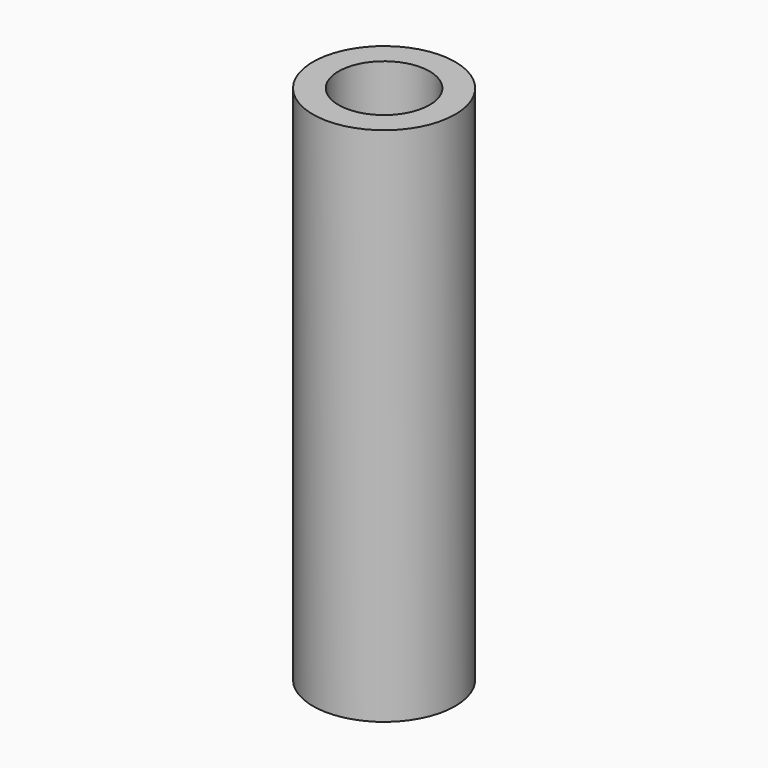
from build123d import *

# Parameters (mm, degrees)
SKETCH_R     = 2.5
PAD_DEPTH    = 18.3
SKETCH001_R  = 1.6
POCKET_DEPTH = 18.301


with BuildPart() as part:
    # Sketch → Pad (new body)
    with BuildSketch(Plane.XY):
        Circle(SKETCH_R)
    extrude(amount=PAD_DEPTH)

    # Sketch001 → Pocket (cut, through all)
    with BuildSketch(Plane.XY.offset(18.3)):
        Circle(SKETCH001_R)
    extrude(amount=-POCKET_DEPTH, mode=Mode.SUBTRACT)


solid = part.part
